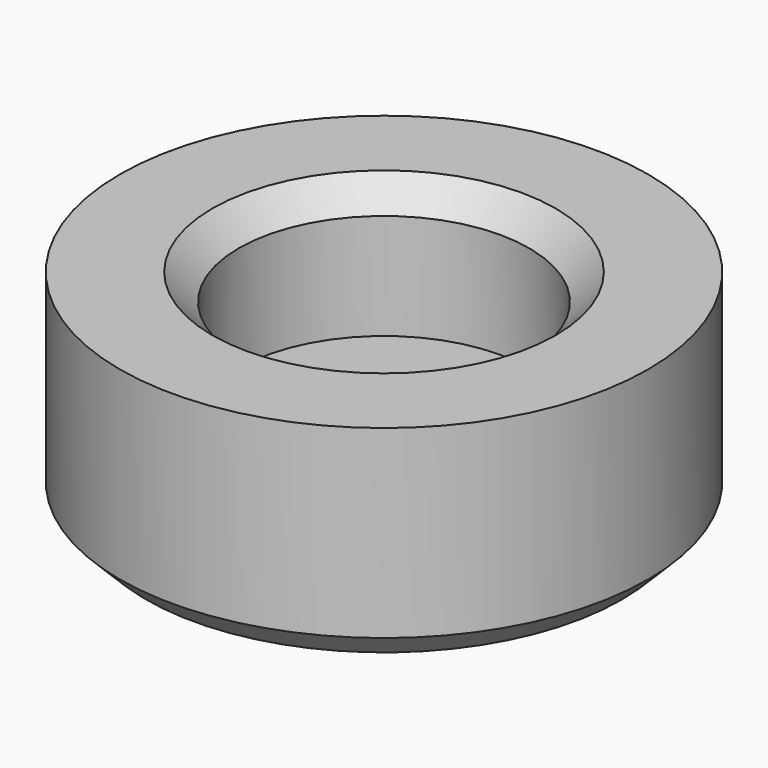
from build123d import *

# Parameters (mm, degrees)
F0_R     = 5
F1_DEPTH = 4
F2_R     = 2.75
F3_DEPTH = 2.5
F4_SIZE  = 0.5


with BuildPart() as f1:
    # F0 (on Top) → F1 (new body)
    with BuildSketch(Plane.XY):
        Circle(F0_R)
    extrude(amount=F1_DEPTH)

    # F2 (on face) → F3 (cut)
    with BuildSketch(Plane.XY.offset(4)):
        Circle(F2_R)
    extrude(amount=-F3_DEPTH, mode=Mode.SUBTRACT)

    # F4
    f4_edges = [f1.edges().sort_by_distance(p)[0] for p in [
        (-2.75, 0, 4),
        (-5, 0, 0),
    ]]
    chamfer(f4_edges, length=F4_SIZE)


solid = f1.part
